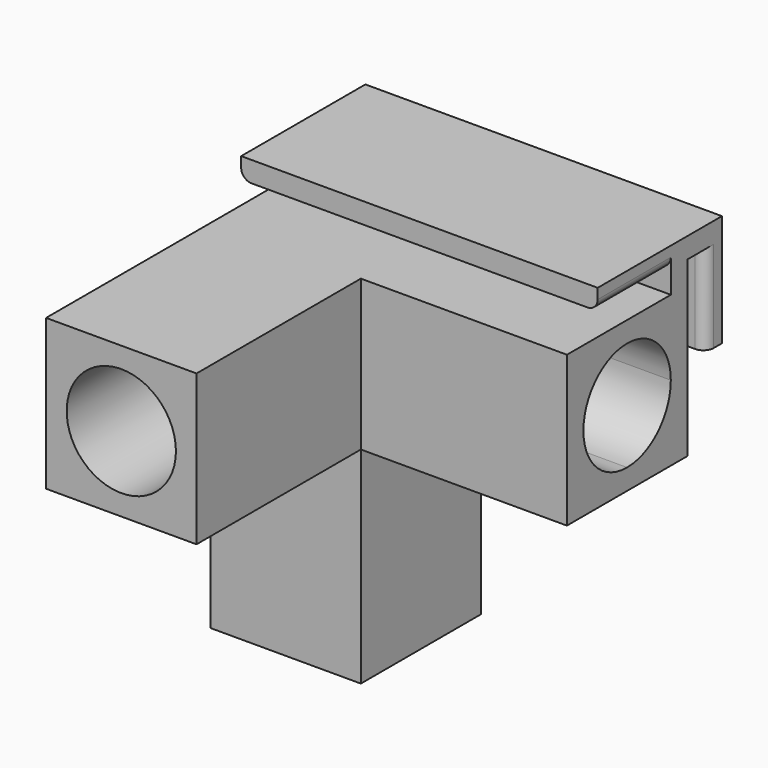
from build123d import *

# Parameters (mm, degrees)
F0_W      = 27
F0_H      = 15.9
F0_W_2    = 15.9
F0_H_2    = 27
F0_W_3    = 3
F0_H_3    = 3
F1_DEPTH  = 21.9
F2_DEPTH  = 51.8
F3_R      = 7.95
F6_DEPTH  = 30
F7_DEPTH  = 30
F4_R      = 7.9
F8_DEPTH  = 30
F9_W      = 3.3
F9_H      = 3
F10_DEPTH = 51.9
F11_R     = 1.5


with BuildPart() as f1:
    # F0 (on Front) → F1 (new body)
    with BuildSketch(Plane.XZ):
        with BuildLine():
            Line((-34.3576915575, 15.9), (-42.3076915575, 15.9))
            Line((-42.3076915575, 15.9), (-42.3076915575, 7.9499999931))
            ThreePointArc((-42.3076915575, 7.9499999931), (-39.9791904704, 13.571498908), (-34.3576915575, 15.9))
        make_face()
        with BuildLine():
            ThreePointArc((-34.3576915575, 15.9), (-39.9791904704, 13.571498908), (-42.3076915575, 7.9499999931))
            ThreePointArc((-42.3076915575, 7.9499999931), (-39.9791904655, 2.3285010871), (-34.3576915575, 0))
            ThreePointArc((-34.3576915575, 0), (-28.7361926471, 2.3285010896), (-26.4076915575, 7.95))
            ThreePointArc((-26.4076915575, 7.95), (-28.7361926471, 13.5714989104), (-34.3576915575, 15.9))
        make_face()
        Polygon((-42.3076915575, 18.9), (-42.3076915575, 45.9), (-26.4076915575, 45.9), (-26.4076915575, 18.9), (-23.4076915575, 18.9), (-23.4076915575, 48.9), (-45.3076915575, 48.9), (-45.3076915575, 18.9), align=None)
        with Locations((-9.9076915575, 7.95)):
            Rectangle(F0_W, F0_H)
        with Locations((-34.3576915575, 32.4)):
            Rectangle(F0_W_2, F0_H_2)
        with BuildLine():
            ThreePointArc((-34.3576915575, 0), (-39.9791904655, 2.3285010871), (-42.3076915575, 7.9499999931))
            Line((-42.3076915575, 7.9499999931), (-42.3076915575, 0))
            Line((-42.3076915575, 0), (-34.3576915575, 0))
        make_face()
        with BuildLine():
            Line((-26.4076915575, 0), (-26.4076915575, 7.95))
            ThreePointArc((-26.4076915575, 7.95), (-28.7361926471, 2.3285010896), (-34.3576915575, 0))
            Line((-34.3576915575, 0), (-26.4076915575, 0))
        make_face()
        with BuildLine():
            Line((-26.4076915575, 7.95), (-26.4076915575, 15.9))
            Line((-26.4076915575, 15.9), (-34.3576915575, 15.9))
            ThreePointArc((-34.3576915575, 15.9), (-28.7361926471, 13.5714989104), (-26.4076915575, 7.95))
        make_face()
        Polygon((6.5923084425, 18.9), (-23.4076915575, 18.9), (-23.4076915575, 15.9), (3.5923084425, 15.9), (3.5923084425, 0), (-23.4076915575, 0), (-23.4076915575, -3), (6.5923084425, -3), align=None)
        Polygon((-26.4076915575, 18.9), (-42.3076915575, 18.9), (-42.3076915575, 15.9), (-34.3576915575, 15.9), (-26.4076915575, 15.9), align=None)
        Polygon((-23.4076915575, 15.9), (-26.4076915575, 15.9), (-26.4076915575, 7.95), (-26.4076915575, 0), (-23.4076915575, 0), align=None)
        Polygon((-42.3076915575, 15.9), (-42.3076915575, 18.9), (-45.3076915575, 18.9), (-45.3076915575, -3), (-23.4076915575, -3), (-23.4076915575, 0), (-26.4076915575, 0), (-34.3576915575, 0), (-42.3076915575, 0), (-42.3076915575, 7.9499999931), align=None)
        with Locations((-24.9076915575, 17.4)):
            Rectangle(F0_W_3, F0_H_3)
    extrude(amount=F1_DEPTH)

    # F0 (on Front) → F2 (join)
    with BuildSketch(Plane.XZ):
        Polygon((-42.3076915575, 15.9), (-42.3076915575, 18.9), (-45.3076915575, 18.9), (-45.3076915575, -3), (-23.4076915575, -3), (-23.4076915575, 0), (-26.4076915575, 0), (-34.3576915575, 0), (-42.3076915575, 0), (-42.3076915575, 7.9499999931), align=None)
        with BuildLine():
            ThreePointArc((-34.3576915575, 15.9), (-39.9791904704, 13.571498908), (-42.3076915575, 7.9499999931))
            ThreePointArc((-42.3076915575, 7.9499999931), (-39.9791904655, 2.3285010871), (-34.3576915575, 0))
            ThreePointArc((-34.3576915575, 0), (-28.7361926471, 2.3285010896), (-26.4076915575, 7.95))
            ThreePointArc((-26.4076915575, 7.95), (-28.7361926471, 13.5714989104), (-34.3576915575, 15.9))
        make_face()
        Polygon((-26.4076915575, 18.9), (-42.3076915575, 18.9), (-42.3076915575, 15.9), (-34.3576915575, 15.9), (-26.4076915575, 15.9), align=None)
        Polygon((-23.4076915575, 15.9), (-26.4076915575, 15.9), (-26.4076915575, 7.95), (-26.4076915575, 0), (-23.4076915575, 0), align=None)
        with Locations((-24.9076915575, 17.4)):
            Rectangle(F0_W_3, F0_H_3)
        with BuildLine():
            Line((-26.4076915575, 7.95), (-26.4076915575, 15.9))
            Line((-26.4076915575, 15.9), (-34.3576915575, 15.9))
            ThreePointArc((-34.3576915575, 15.9), (-28.7361926471, 13.5714989104), (-26.4076915575, 7.95))
        make_face()
        with BuildLine():
            Line((-34.3576915575, 15.9), (-42.3076915575, 15.9))
            Line((-42.3076915575, 15.9), (-42.3076915575, 7.9499999931))
            ThreePointArc((-42.3076915575, 7.9499999931), (-39.9791904704, 13.571498908), (-34.3576915575, 15.9))
        make_face()
        with BuildLine():
            ThreePointArc((-34.3576915575, 0), (-39.9791904655, 2.3285010871), (-42.3076915575, 7.9499999931))
            Line((-42.3076915575, 7.9499999931), (-42.3076915575, 0))
            Line((-42.3076915575, 0), (-34.3576915575, 0))
        make_face()
        with BuildLine():
            Line((-26.4076915575, 0), (-26.4076915575, 7.95))
            ThreePointArc((-26.4076915575, 7.95), (-28.7361926471, 2.3285010896), (-34.3576915575, 0))
            Line((-34.3576915575, 0), (-26.4076915575, 0))
        make_face()
    extrude(amount=F2_DEPTH)

    # F3 (on face) → F6 (cut)
    with BuildSketch(Plane.XZ.offset(51.8)):
        with Locations((-34.3576915575, 7.95)):
            Circle(F3_R)
    extrude(amount=-F6_DEPTH, mode=Mode.SUBTRACT)

    # F5 (on face) → F7 (cut)
    with BuildSketch(Plane.YZ.offset(6.5923084425)):
        with BuildLine():
            ThreePointArc((-3, 7.95), (-5.3285010896, 13.5714989104), (-10.95, 15.9))
            ThreePointArc((-10.95, 15.9), (-16.5714989104, 13.5714989104), (-18.9, 7.95))
            ThreePointArc((-18.9, 7.95), (-16.5714989104, 2.3285010896), (-10.95, 0))
            ThreePointArc((-10.95, 0), (-5.3285010896, 2.3285010896), (-3, 7.95))
        make_face()
    extrude(amount=-F7_DEPTH, mode=Mode.SUBTRACT)

    # F4 (on face) → F8 (cut)
    with BuildSketch(Plane.XY.offset(48.9)):
        with Locations((-34.3576915575, -10.9)):
            Circle(F4_R)
    extrude(amount=-F8_DEPTH, mode=Mode.SUBTRACT)

    # F9 (on face) → F10 (join)
    with BuildSketch(Plane(origin=(-45.3076915575, 0, 0), x_dir=(0, -1, 0), z_dir=(-1, 0, 0))):
        Polygon((3, -3), (0, -3), (0, -6.3), (0, -9.3), (16.3, -9.3), (16.3, -6.3), (3, -6.3), align=None)
        with Locations((-1.65, -7.8)):
            Rectangle(F9_W, F9_H)
        Polygon((-3.3, -9.3), (-3.3, -6.3), (-3.3, 7), (-6.3, 7), (-6.3, -9.3), align=None)
    extrude(amount=-F10_DEPTH)

    # F11
    f11_edges = [f1.edges().sort_by_distance(p)[0] for p in [
        (-45.307692, -9.65, -6.3),
        (6.592308, -9.65, -6.3),
        (-45.307692, 3.3, 0.35),
        (6.592308, 3.3, 0.35),
    ]]
    fillet(f11_edges, radius=F11_R)


with BuildPart() as f12_1:
    # F12: instance of F1
    add(f1.part.mirror(Plane(origin=(-19.3576915575, -5, -9.3), x_dir=(1, 0, 0), z_dir=(0, 0, -1))))


solid = f12_1.part
